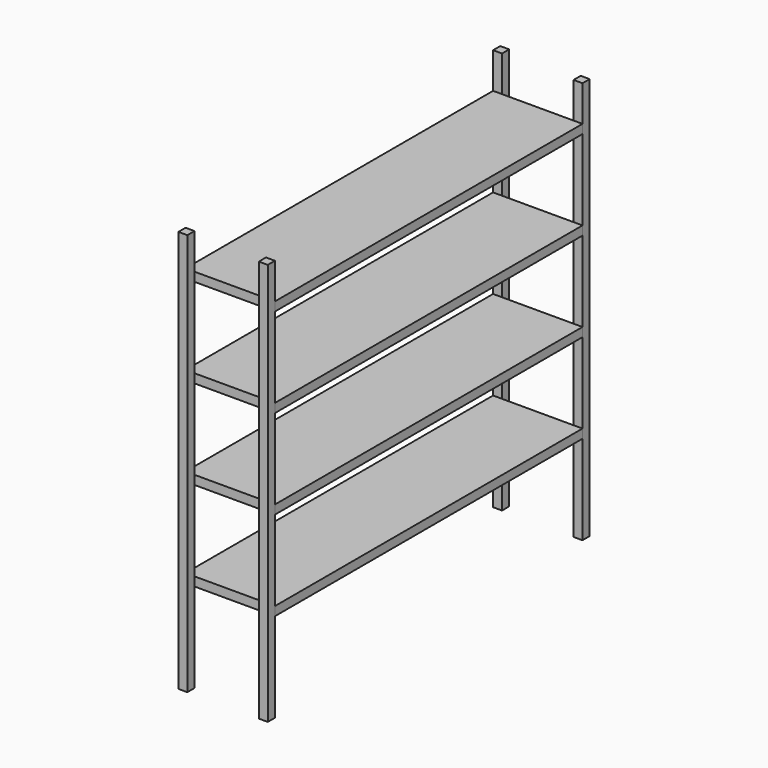
from build123d import *

# Parameters (mm, degrees)
F0_W      = 100
F0_H      = 100
F9_DEPTH  = 4500
F5_W      = 1000
F5_H      = 4300
F10_DEPTH = 100
F6_W      = 1000
F6_H      = 4300
F11_DEPTH = 100
F7_W      = 1000
F7_H      = 4300
F12_DEPTH = 100
F8_W      = 1000
F8_H      = 4300
F13_DEPTH = 100


with BuildPart() as f9:
    # F0 (on Top) → F9 (new body)
    with BuildSketch(Plane.XY):
        with Locations((-450, 2200)):
            Rectangle(F0_W, F0_H)
        with Locations((450, 2200)):
            Rectangle(F0_W, F0_H)
        with Locations((-450, -2200)):
            Rectangle(F0_W, F0_H)
        with Locations((450, -2200)):
            Rectangle(F0_W, F0_H)
    extrude(amount=F9_DEPTH)


with BuildPart() as f10:
    # F5 (on offset) → F10 (new body)
    with BuildSketch(Plane.XY.offset(1000)):
        Rectangle(F5_W, F5_H)
    extrude(amount=F10_DEPTH)


with BuildPart() as f11:
    # F6 (on offset) → F11 (new body)
    with BuildSketch(Plane.XY.offset(2000)):
        Rectangle(F6_W, F6_H)
    extrude(amount=F11_DEPTH)


with BuildPart() as f12:
    # F7 (on offset) → F12 (new body)
    with BuildSketch(Plane.XY.offset(3000)):
        Rectangle(F7_W, F7_H)
    extrude(amount=F12_DEPTH)


with BuildPart() as f13:
    # F8 (on offset) → F13 (new body)
    with BuildSketch(Plane.XY.offset(4000)):
        Rectangle(F8_W, F8_H)
    extrude(amount=F13_DEPTH)


solid = Compound([f9.part, f10.part, f11.part, f12.part, f13.part])
